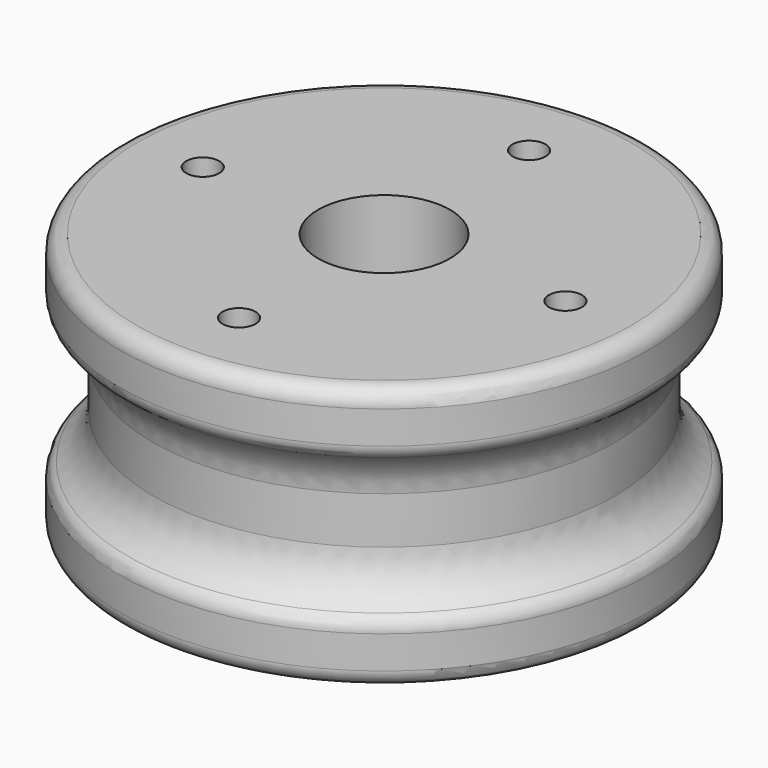
from build123d import *

# Parameters (mm, degrees)
F0_R           = 25.4
F1_DEPTH       = 6.35
F2_R           = 22.225
F3_DEPTH       = 12.7
F4_R           = 25.4
F5_DEPTH       = 6.35
F6_R           = 1.6002
F7_R           = 5.08
F9_D           = 3.175
F9_DEPTH       = 3.175
F9_CBORE_D     = 3.175
F9_CBORE_DEPTH = 3.175
F9_TIP         = 0.9538662327
F10_D          = 12.7


with BuildPart() as f1:
    # F0 (on Top) → F1 (new body)
    with BuildSketch(Plane.XY):
        Circle(F0_R)
    extrude(amount=F1_DEPTH)

    # F2 (on face) → F3 (join)
    with BuildSketch(Plane.XY.offset(6.35)):
        Circle(F2_R)
    extrude(amount=F3_DEPTH)

    # F4 (on face) → F5 (join)
    with BuildSketch(Plane.XY.offset(19.05)):
        Circle(F4_R)
    extrude(amount=F5_DEPTH)

    # F6
    f6_edges = [f1.edges().sort_by_distance(p)[0] for p in [
        (-25.4, 0, 6.35),
        (-25.4, 0, 19.05),
        (25.4, 0, 3.175),
        (-25.4, 0, 0),
        (-25.4, 0, 25.4),
    ]]
    fillet(f6_edges, radius=F6_R)

    # F7
    f7_edges = [f1.edges().sort_by_distance(p)[0] for p in [
        (22.225, 0, 12.7),
        (-22.225, 0, 6.35),
        (-22.225, 0, 19.05),
    ]]
    fillet(f7_edges, radius=F7_R)

    # F9
    with Locations(Plane.XY.offset(25.4)):
        with Locations((0, -17.4498), (-17.4498, 0), (0, 17.4498), (17.4498, 0)):
            CounterBoreHole(F9_D / 2, F9_CBORE_D / 2, F9_CBORE_DEPTH, depth=F9_DEPTH)
            with Locations((0, 0, -(F9_DEPTH + F9_TIP / 2))):  # 118° drill point
                Cone(0, F9_D / 2, F9_TIP, mode=Mode.SUBTRACT)

    # F10 (through all)
    with Locations(Plane.XY.offset(25.4)):
        with Locations((0, 0)):
            Hole(F10_D / 2)


solid = f1.part
